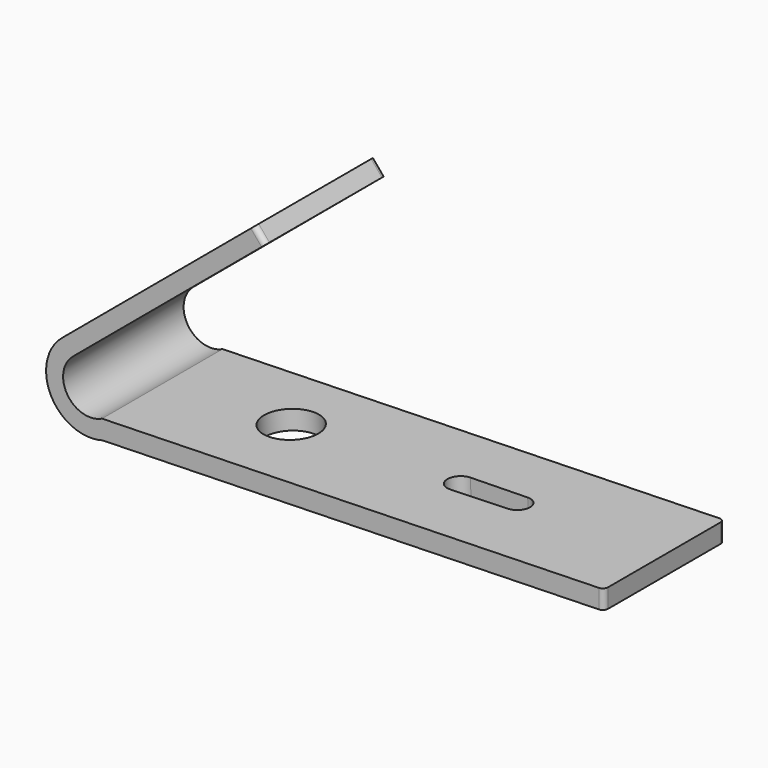
from build123d import *

# Parameters (mm, degrees)
F1_DEPTH = 150
F2_R     = 5
F3_R     = 14.9999953218
F3_R_2   = 15
F4_DEPTH = 25
F5_R     = 27.0158280376
F6_DEPTH = 25


with BuildPart() as f1:
    # F0 (on Front) → F1 (new body)
    with BuildSketch(Plane.XZ):
        Polygon((93.6258085565, 97.991302244), (-98.2046941788, -62.3241936394), (-87.4790228189, -75.1583299641), (104.3514799163, 85.1571659193), align=None)
        with BuildLine():
            Line((-87.4790228189, -75.1583299641), (-98.2046941788, -62.3241936394))
            ThreePointArc((-98.2046941788, -62.3241936394), (-109.0167692981, -116.9894962958), (-57.8507907344, -139.0629853841))
            Line((-57.8507907344, -139.0629853841), (-58.3305805922, -120.1455667615))
            ThreePointArc((-58.3305805922, -120.1455667615), (-92.8244846189, -110.5584473591), (-87.4790228189, -75.1583299641))
        make_face()
        Polygon((-58.3305805922, -120.1455667615), (-57.8507907344, -139.0629853841), (441.5086849726, -126.3980644136), (441.5086849726, -107.4684772011), align=None)
    extrude(amount=F1_DEPTH)

    # F2
    f2_edges = [f1.edges().sort_by_distance(p)[0] for p in [
        (98.988644, -150, 91.574234),
        (98.988644, 0, 91.574234),
        (441.508685, -150, -116.933271),
        (441.508685, 0, -116.933271),
    ]]
    fillet(f2_edges, radius=F2_R)

    # F3 (on face) → F4 (cut)
    with BuildSketch(Plane(origin=(-9.7165371294, 0, 11.6266253123), x_dir=(0.7673220109, 0, 0.6412619835), z_dir=(-0.6412619835, 0, 0.7673220109))):
        with Locations((57.3368984643, -106.4837826855)):
            Circle(F3_R)
        with Locations((66.128025143, -25.343221313)):
            Circle(F3_R_2)
    extrude(amount=-F4_DEPTH, mode=Mode.SUBTRACT)

    # F5 (on face) → F6 (cut)
    with BuildSketch(Plane(origin=(3.0077160605, 0, -118.5898844978), x_dir=(0.9996785311, 0, 0.0253541791), z_dir=(-0.0253541791, 0, 0.9996785311))):
        with Locations((63.3628219366, -70.44968009)):
            Circle(F5_R)
        with BuildLine():
            Line((290.8473328755, -60.3176639156), (233.4038116923, -59.7659925333))
            ThreePointArc((233.4038116923, -59.7659925333), (220.5742240017, -72.4120867419), (233.2817761647, -85.180803869))
            Line((233.2817761647, -85.180803869), (233.5255773105, -85.1784649534))
            Line((233.5255773105, -85.1784649534), (290.8472091458, -84.6285476904))
            ThreePointArc((290.8472091458, -84.6285476904), (302.8865972816, -72.4731670769), (290.8473328755, -60.3176639156))
        make_face()
        with BuildLine():
            Line((233.5255773105, -85.1784649534), (233.2817761647, -85.180803869))
            ThreePointArc((233.2817761647, -85.180803869), (233.4036823471, -85.1802191266), (233.5255773105, -85.1784649534))
        make_face()
    extrude(amount=-F6_DEPTH, mode=Mode.SUBTRACT)


solid = f1.part
